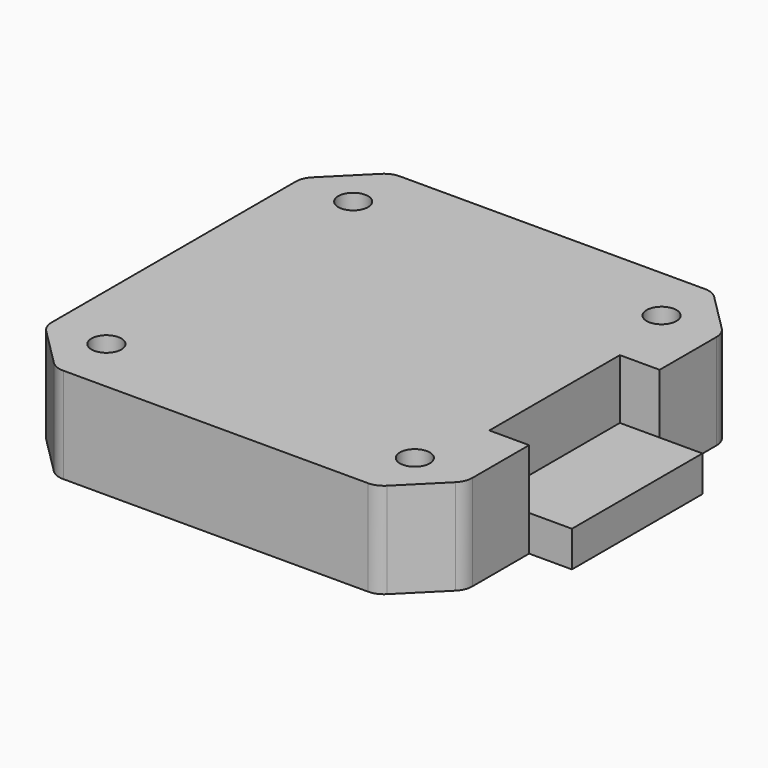
from build123d import *

# Parameters (mm, degrees)
SKETCH064_W         = 42.3
SKETCH064_H         = 42.3
PAD028_DEPTH        = 9.6
SKETCH063_W         = 4.3
SKETCH063_H         = 16.4
PAD027_DEPTH        = 3.6
CHAMFER014_SIZE     = 5
FILLET009_R         = 2
HOLE002_D           = 3
HOLE002_DEPTH       = 25
HOLE002_CBORE_D     = 5
HOLE002_CBORE_DEPTH = 5
SKETCH082_W         = 16.4
SKETCH082_H         = 6
POCKET028_DEPTH     = 4


with BuildPart() as part:
    # Sketch064 → Pad028 (new body)
    with BuildSketch(Plane.XY):
        Rectangle(SKETCH064_W, SKETCH064_H)
    extrude(amount=PAD028_DEPTH)

    # Sketch063 → Pad027 (join)
    with BuildSketch(Plane.XY):
        with Locations((23.3, 0)):
            Rectangle(SKETCH063_W, SKETCH063_H)
    extrude(amount=PAD027_DEPTH)

    # Chamfer014
    chamfer014_edges = [part.edges().sort_by_distance(p)[0] for p in [
        (21.15, -21.15, 4.8),
        (-21.15, -21.15, 4.8),
        (-21.15, 21.15, 4.8),
        (21.15, 21.15, 4.8),
    ]]
    chamfer(chamfer014_edges, length=CHAMFER014_SIZE)

    # Fillet009
    fillet009_edges = [part.edges().sort_by_distance(p)[0] for p in [
        (16.15, -21.15, 4.8),
        (21.15, -16.15, 4.8),
        (21.15, 16.15, 4.8),
        (16.15, 21.15, 4.8),
        (-16.15, 21.15, 4.8),
        (-21.15, 16.15, 4.8),
        (-16.15, -21.15, 4.8),
        (-21.15, -16.15, 4.8),
    ]]
    fillet(fillet009_edges, radius=FILLET009_R)

    # Hole002
    with Locations(Plane(origin=(0, 0, 0), x_dir=(1, 0, 0), z_dir=(0, 0, -1))):
        with Locations((-15.5, 15.5), (15.5, 15.5), (15.5, -15.5), (-15.5, -15.5)):
            CounterBoreHole(HOLE002_D / 2, HOLE002_CBORE_D / 2, HOLE002_CBORE_DEPTH, depth=HOLE002_DEPTH)

    # Sketch082 (on Face11 of Hole002) → Pocket028 (cut)
    with BuildSketch(Plane.YZ.offset(21.15)):
        with Locations((0, 6.6)):
            Rectangle(SKETCH082_W, SKETCH082_H)
    extrude(amount=-POCKET028_DEPTH, mode=Mode.SUBTRACT)


solid = part.part
